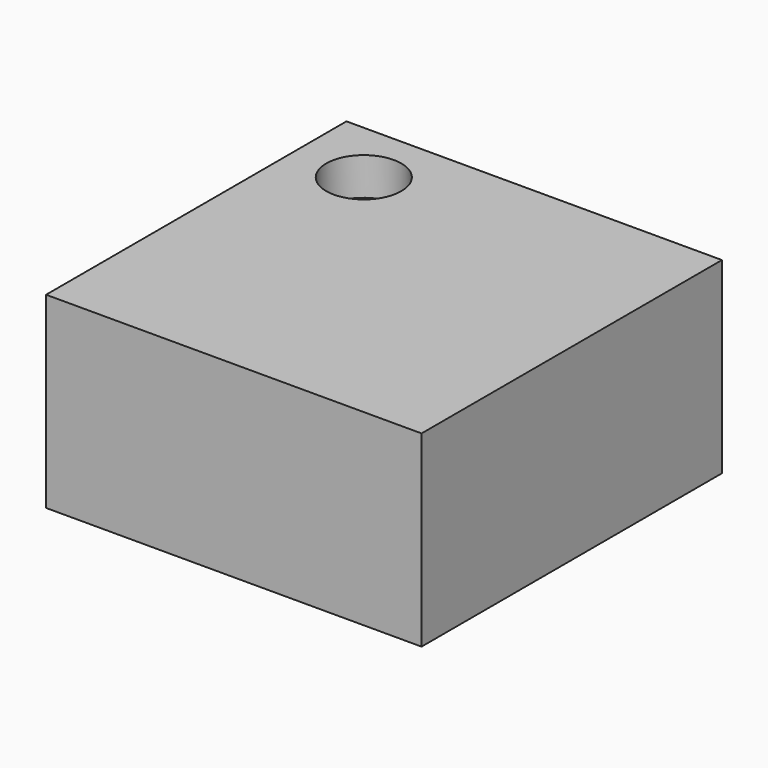
from build123d import *

# Parameters (mm, degrees)
F0_W           = 50
F0_H           = 50
F1_DEPTH       = 25
F3_D           = 5.2
F3_CBORE_D     = 10
F3_CBORE_DEPTH = 5


with BuildPart() as f1:
    # F0 (on Top) → F1 (new body)
    with BuildSketch(Plane.XY):
        Rectangle(F0_W, F0_H)
    extrude(amount=-F1_DEPTH)

    # F3 (through all)
    with Locations(Plane.XY):
        with Locations((-15.721669, 16.288219)):
            CounterBoreHole(F3_D / 2, F3_CBORE_D / 2, F3_CBORE_DEPTH)


solid = f1.part
